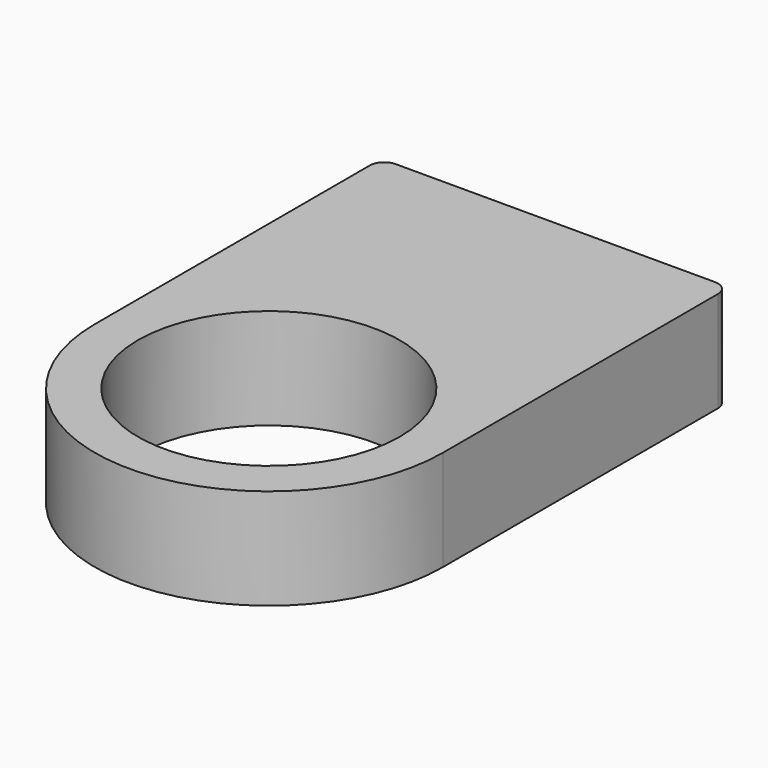
from build123d import *

# Parameters (mm, degrees)
F0_R     = 9.1
F1_DEPTH = 7
F2_R     = 1
F3_R     = 1


with BuildPart() as f1:
    # F0 (on Top) → F1 (new body)
    with BuildSketch(Plane.XY):
        with BuildLine():
            ThreePointArc((-12.1, 0), (0, -12.1), (12.1, 0))
            ThreePointArc((12.1, 0), (0, 12.1), (-12.1, 0))
        make_face()
        Circle(F0_R, mode=Mode.SUBTRACT)
        with BuildLine():
            ThreePointArc((-12.1, 0), (0, 12.1), (12.1, 0))
            Line((12.1, 0), (12.1, 24.9))
            Line((12.1, 24.9), (-12.1, 24.9))
            Line((-12.1, 24.9), (-12.1, 0))
        make_face()
    extrude(amount=F1_DEPTH)

    # F2
    f2_edges = [f1.edges().sort_by_distance(p)[0] for p in [
        (-12.1, 24.9, 3.5),
    ]]
    fillet(f2_edges, radius=F2_R)

    # F3
    f3_edges = [f1.edges().sort_by_distance(p)[0] for p in [
        (12.1, 24.9, 3.5),
    ]]
    fillet(f3_edges, radius=F3_R)


solid = f1.part
